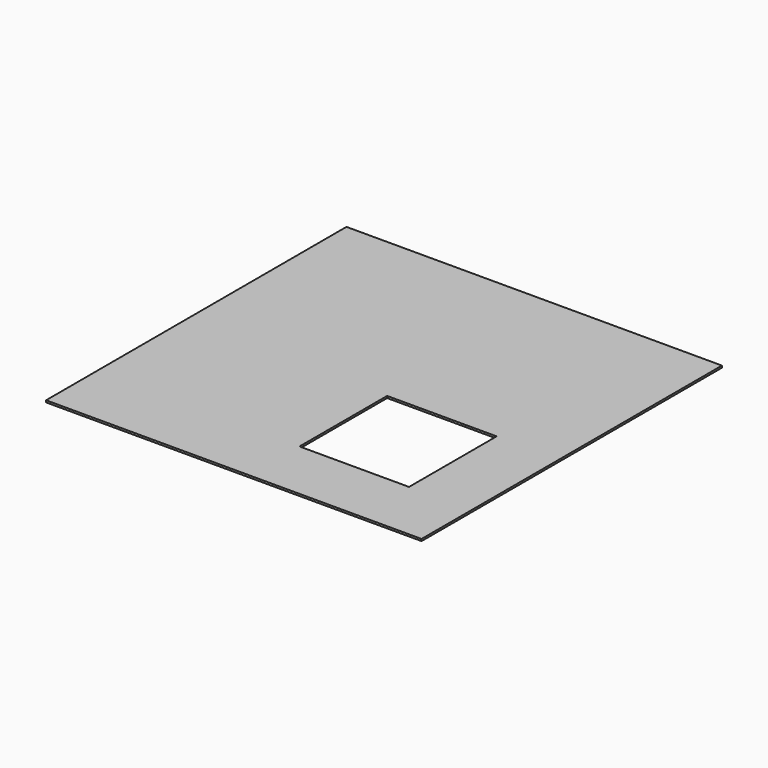
from build123d import *

# Parameters (mm, degrees)
F1_DEPTH = 6.35
F2_W     = 355.6
F2_H     = 355.6
F3_DEPTH = 25.4


with BuildPart() as f1:
    # F0 (on Top) → F1 (new body)
    with BuildSketch(Plane.XY):
        Polygon((609.6, -609.6), (-609.6, 609.6), (-609.6, -609.6), align=None)
        Polygon((609.6, 609.6), (-609.6, 609.6), (609.6, -609.6), align=None)
    extrude(amount=F1_DEPTH)

    # F2 (on Top) → F3 (cut)
    with BuildSketch(Plane.XY):
        with Locations((228.6, -228.6)):
            Rectangle(F2_W, F2_H)
    extrude(amount=F3_DEPTH, mode=Mode.SUBTRACT)


solid = f1.part
